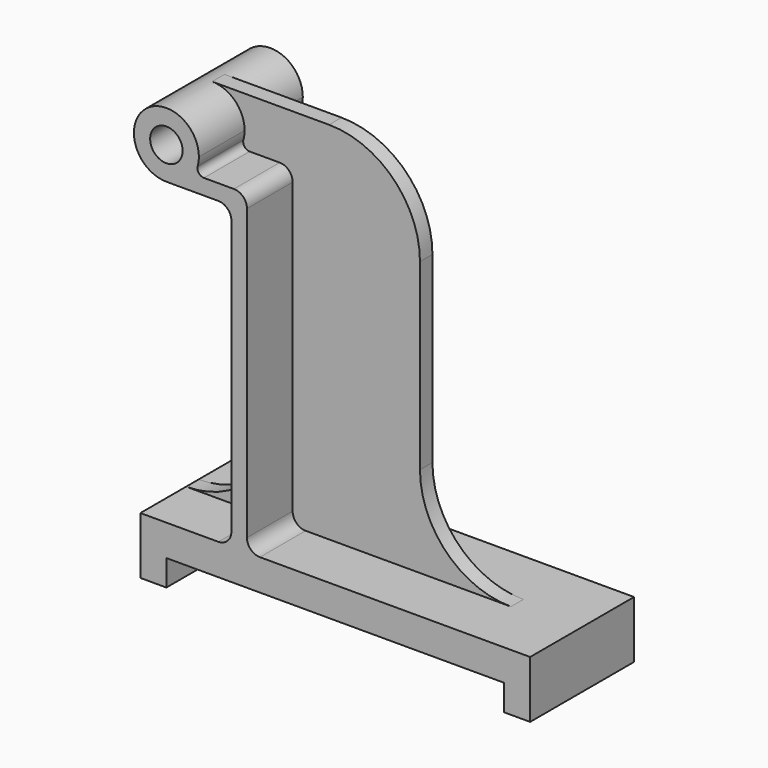
from build123d import *

# Parameters (mm, degrees)
F1_DEPTH = 100
F2_R     = 12.5
F3_DEPTH = 100
F4_R     = 5
F7_DEPTH = 6
F8_R     = 10


with BuildPart() as f1:
    # F0 (on Front) → F1 (new body)
    with BuildSketch(Plane.XZ):
        Polygon((-150, 0), (-150, -44), (-130, -44), (-130, -24), (130, -24), (130, -44), (150, -44), (150, 0), align=None)
        Polygon((-150, 0), (-150, -44), (-130, -44), (-130, -24), (130, -24), (130, -44), (150, -44), (150, 0), align=None)
    extrude(amount=F1_DEPTH)

    # F2 (on Front) → F3 (join)
    with BuildSketch(Plane.XZ):
        with BuildLine():
            Line((-80, 221), (-80, 0))
            Line((-80, 0), (-68, 0))
            Line((-68, 0), (-68, 233))
            ThreePointArc((-68, 233), (-70.9289321881, 240.0710678119), (-78, 243))
            Line((-78, 243), (-108.6458434959, 243))
            ThreePointArc((-108.6458434959, 243), (-117.7525512861, 234.2055052823), (-130, 231))
            Line((-130, 231), (-90, 231))
            ThreePointArc((-90, 231), (-82.9289321881, 228.0710678119), (-80, 221))
        make_face()
        with BuildLine():
            ThreePointArc((-105, 256), (-147.6776695297, 273.6776695297), (-130, 231))
            ThreePointArc((-130, 231), (-117.7525512861, 234.2055052823), (-108.6458434959, 243))
            ThreePointArc((-108.6458434959, 243), (-105.9287109547, 249.2492190304), (-105, 256))
        make_face()
        with Locations((-130, 256)):
            Circle(F2_R, mode=Mode.SUBTRACT)
    extrude(amount=F3_DEPTH)

    # F4
    f4_edges = [f1.edges().sort_by_distance(p)[0] for p in [
        (-108.645843, -50, 243),
    ]]
    fillet(f4_edges, radius=F4_R)

    # F6 (on offset) → F7 (join, symmetric)
    with BuildSketch(Plane(origin=(0, -50, 0), x_dir=(-1, 0, 0), z_dir=(0, 1, 0))):
        with BuildLine():
            ThreePointArc((105.9052795087, 249.3333333333), (110.1044393561, 271.1382517705), (130, 281))
            Line((130, 281), (40, 281))
            ThreePointArc((40, 281), (-9.4974746831, 260.4974746831), (-30, 211))
            Line((-30, 211), (-30, 70))
            ThreePointArc((-30, 70), (-50.5025253169, 20.5025253169), (-100, 0))
            Line((-100, 0), (68, 0))
            Line((68, 0), (68, 233))
            ThreePointArc((68, 233), (70.9289321881, 240.0710678119), (78, 243))
            Line((78, 243), (101.0863354104, 243))
            ThreePointArc((101.0863354104, 243), (105.0654475392, 244.9723496459), (105.9052795087, 249.3333333333))
        make_face()
        with BuildLine():
            ThreePointArc((150, 0), (100.5025253169, 20.5025253169), (80, 70))
            Line((80, 70), (80, 0))
            Line((80, 0), (150, 0))
        make_face()
    extrude(amount=F7_DEPTH, both=True)

    # F8
    f8_edges = [f1.edges().sort_by_distance(p)[0] for p in [
        (-80, -78, 0),
        (-80, -22, 0),
        (-68, -22, 0),
        (-68, -78, 0),
    ]]
    fillet(f8_edges, radius=F8_R)


solid = f1.part
